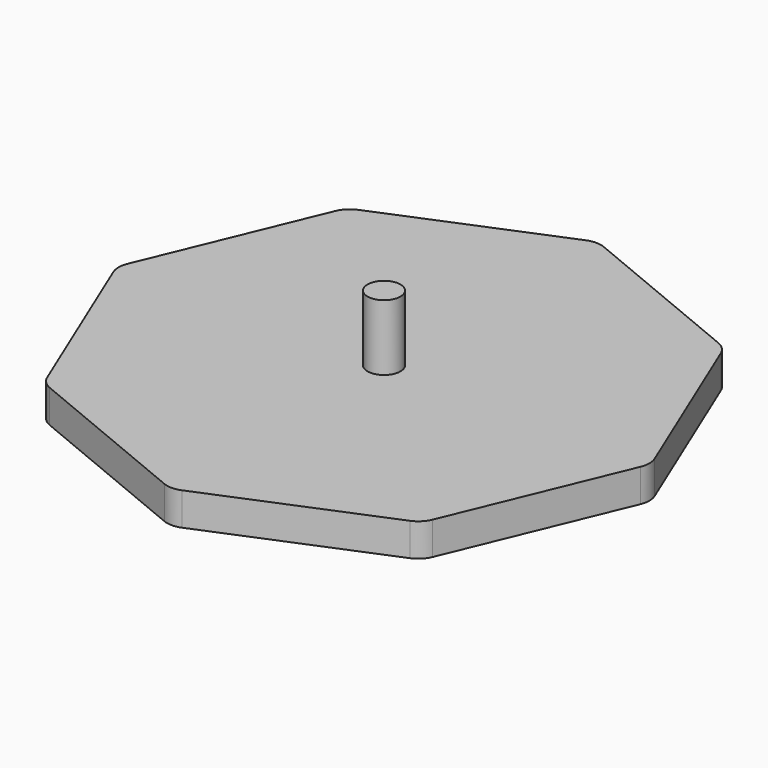
from build123d import *

# Parameters (mm, degrees)
F1_DEPTH = 10
F2_R     = 5
F3_DEPTH = 20
F4_R     = 7


with BuildPart() as f1:
    # F0 (on Top) → F1 (new body)
    with BuildSketch(Plane.XY):
        Polygon((81.179415, 0), (57.402515, 57.402515), (0, 81.179415), (-57.402515, 57.402515), (-81.179415, 0), (-57.402515, -57.402515), (0, -81.179415), (57.402515, -57.402515), align=None)
    extrude(amount=F1_DEPTH)

    # F2 (on face) → F3 (join)
    with BuildSketch(Plane.XY.offset(10)):
        Circle(F2_R)
    extrude(amount=F3_DEPTH)

    # F4
    f4_edges = [f1.edges().sort_by_distance(p)[0] for p in [
        (-57.402515, 57.402515, 5),
        (-81.179415, 0, 5),
        (0, 81.179415, 5),
        (-57.402515, -57.402515, 5),
        (0, -81.179415, 5),
        (57.402515, -57.402515, 5),
        (81.179415, 0, 5),
        (57.402515, 57.402515, 5),
    ]]
    fillet(f4_edges, radius=F4_R)


solid = f1.part
